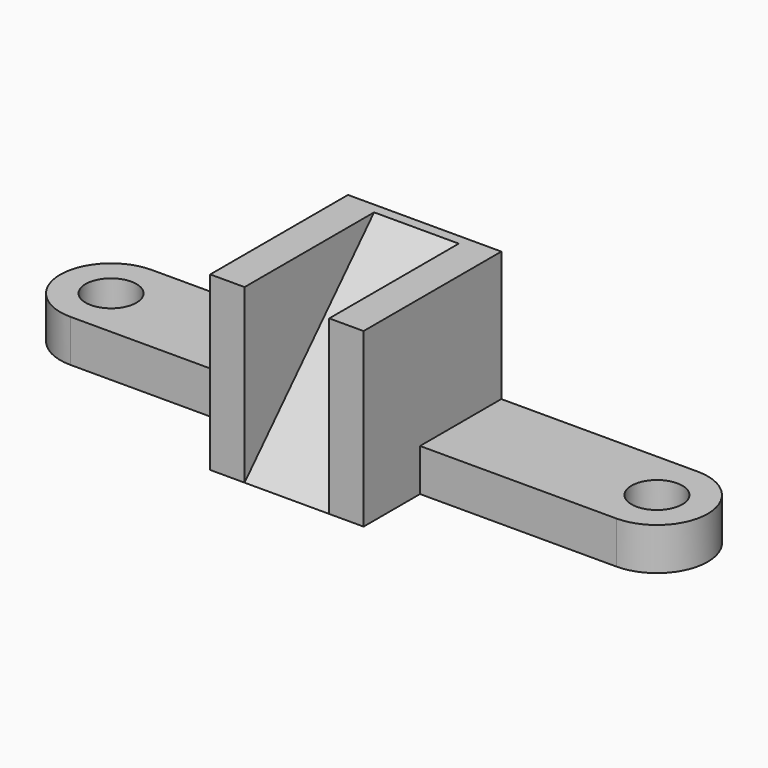
from build123d import *

# Parameters (mm, degrees)
F1_DEPTH = 61
F0_R     = 9
F2_DEPTH = 15
F4_DEPTH = 30


with BuildPart() as f1:
    # F0 (on Top) → F1 (new body)
    with BuildSketch(Plane.XY):
        Polygon((0, 15.107143), (-27.166667, 15.107143), (-27.166667, -20.892857), (-27.166667, -45.892857), (-15, -45.892857), (-15, 11.464287), (0, 11.464287), (15, 11.464287), (15, -45.892857), (27.166667, -45.892857), (27.166667, -20.892857), (27.166667, 15.107143), align=None)
    extrude(amount=F1_DEPTH)

    # F0 (on Top) → F2 (join)
    with BuildSketch(Plane.XY):
        with BuildLine():
            Line((-27.166667, 15.107143), (-96.696436, 15.107143))
            ThreePointArc((-96.696436, 15.107143), (-114.696436, -2.892857), (-96.696436, -20.892857))
            ThreePointArc((-96.696436, -20.892857), (-93.708552, -20.64314), (-90.803571, -19.900918))
            Line((-90.803571, -19.900918), (-90.803571, -20.892857))
            Line((-90.803571, -20.892857), (-27.166667, -20.892857))
            Line((-27.166667, -20.892857), (-27.166667, 15.107143))
        make_face()
        with Locations((-96.696436, -2.892857)):
            Circle(F0_R, mode=Mode.SUBTRACT)
        Polygon((0, 15.107143), (-27.166667, 15.107143), (-27.166667, -20.892857), (-27.166667, -45.892857), (-15, -45.892857), (-15, 11.464287), (0, 11.464287), (15, 11.464287), (15, -45.892857), (27.166667, -45.892857), (27.166667, -20.892857), (27.166667, 15.107143), align=None)
        with BuildLine():
            ThreePointArc((-90.803571, -19.900918), (-93.708552, -20.64314), (-96.696436, -20.892857))
            Line((-96.696436, -20.892857), (-90.803571, -20.892857))
            Line((-90.803571, -20.892857), (-90.803571, -19.900918))
        make_face()
        with BuildLine():
            Line((96.696436, 15.107143), (27.166667, 15.107143))
            Line((27.166667, 15.107143), (27.166667, -20.892857))
            Line((27.166667, -20.892857), (96.696436, -20.892857))
            ThreePointArc((96.696436, -20.892857), (114.696436, -2.892857), (96.696436, 15.107143))
        make_face()
        with Locations((96.696436, -2.892857)):
            Circle(F0_R, mode=Mode.SUBTRACT)
    extrude(amount=F2_DEPTH)

    # F3 (on face) → F4 (join)
    with BuildSketch(Plane(origin=(15, 0, 0), x_dir=(0, -1, 0), z_dir=(-1, 0, 0))):
        Polygon((45.892857, 0), (-11.464287, 61), (-11.464287, 0), align=None)
    extrude(amount=F4_DEPTH)


solid = f1.part
